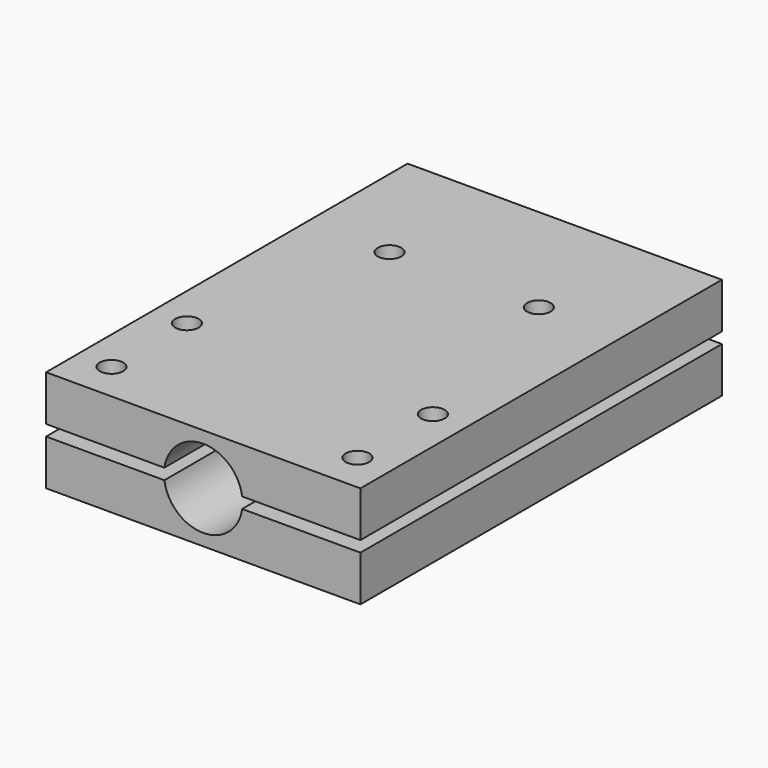
from build123d import *

# Parameters (mm, degrees)
F1_DEPTH  = 45
F2_W      = 40
F2_H      = 22.5
F3_DEPTH  = 25
F4_W      = 40
F4_H      = 5.7979146773
F6_DEPTH  = 25
F5_W      = 40
F5_H      = 5.7979146773
F8_DEPTH  = 10
F9_R      = 1.5
F10_DEPTH = 25
F11_DEPTH = 56.4


with BuildPart() as f1:
    # F0 (on Front) → F1 (new body)
    with BuildSketch(Plane.XZ):
        with BuildLine():
            Line((-20, 6.5), (-20, 0.7020853227))
            Line((-20, 0.7020853227), (-4.9504622208, 0.7020853227))
            ThreePointArc((-4.9504622208, 0.7020853227), (0, 5), (4.9504622208, 0.7020853227))
            Line((4.9504622208, 0.7020853227), (20, 0.7020853227))
            Line((20, 0.7020853227), (20, 6.5))
            Line((20, 6.5), (-20, 6.5))
        make_face()
    extrude(amount=F1_DEPTH)


with BuildPart() as f1b:
    # F0 (on Front) → F1, piece 2 (new body)
    with BuildSketch(Plane.XZ):
        with BuildLine():
            ThreePointArc((4.9504622208, -0.7020853227), (0, -5), (-4.9504622208, -0.7020853227))
            Line((-4.9504622208, -0.7020853227), (-20, -0.7020853227))
            Line((-20, -0.7020853227), (-20, -6.5))
            Line((-20, -6.5), (20, -6.5))
            Line((20, -6.5), (20, -0.7020853227))
            Line((20, -0.7020853227), (4.9504622208, -0.7020853227))
        make_face()
    extrude(amount=F1_DEPTH)


with BuildPart() as f3_tool:
    # F2 (on face) → F3 (new body)
    with BuildSketch(Plane.XY.offset(6.5)):
        with Locations((0, -11.25)):
            Rectangle(F2_W, F2_H)
    extrude(amount=-F3_DEPTH)


with BuildPart() as f1_1:
    add(f1.part)

    # F3: cut by f3_tool
    add(f3_tool.part, mode=Mode.SUBTRACT)

    # F4 (on face) → F6 (join)
    with BuildSketch(Plane(origin=(0, -22.5, 0), x_dir=(-1, 0, 0), z_dir=(0, 1, 0))):
        with Locations((0, 3.6010426614)):
            Rectangle(F4_W, F4_H)
    extrude(amount=F6_DEPTH)

    # F7: union 

    # F8 (add): a face of the model
    f8_faces = [f1_1.faces().sort_by_distance(p)[0] for p in [
        (0, 2.5, 3.6010426614),
    ]]
    extrude(f8_faces, amount=F8_DEPTH)


with BuildPart() as f1b_1:
    add(f1b.part)

    # F3: cut by f3_tool
    add(f3_tool.part, mode=Mode.SUBTRACT)

    # F5 (on face) → F6, piece 2 (join)
    with BuildSketch(Plane(origin=(0, -22.5, 0), x_dir=(-1, 0, 0), z_dir=(0, 1, 0))):
        with Locations((0, -3.6010426614)):
            Rectangle(F5_W, F5_H)
    extrude(amount=F6_DEPTH)

    # F8#2 (add): a face of the model
    f8_2_faces = [f1b_1.faces().sort_by_distance(p)[0] for p in [
        (0, 2.5, -3.6010426614),
    ]]
    extrude(f8_2_faces, amount=F8_DEPTH)


with BuildPart() as f10_tool:
    # F9 (on face) → F10 (new body)
    with BuildSketch(Plane.XY.offset(6.5)):
        with Locations((-15.648426488, -40.0356091559)):
            Circle(F9_R)
        with Locations((-15.648426488, -28.0356091559)):
            Circle(F9_R)
        with Locations((15.648426488, -40.0356091559)):
            Circle(F9_R)
        with Locations((15.648426488, -28.0356091559)):
            Circle(F9_R)
        with Locations((9.5, -3.5)):
            Circle(F9_R)
        with Locations((-9.5, -3.5)):
            Circle(F9_R)
    extrude(amount=-F10_DEPTH)


with BuildPart() as f1_2:
    add(f1_1.part)

    # F10: cut by f10_tool
    add(f10_tool.part, mode=Mode.SUBTRACT)


with BuildPart() as f1b_2:
    add(f1b_1.part)

    # F10: cut by f10_tool
    add(f10_tool.part, mode=Mode.SUBTRACT)


with BuildPart() as f11_tool:
    # F6_face1 (on face) → F11 (new body)
    with BuildSketch(Plane(origin=(0, -22.5, 2.5062101444), x_dir=(-1, 0, 0), z_dir=(0, -1, 0))):
        with BuildLine():
            Line((4.9504622208, 1.8041248217), (-4.9504622208, 1.8041248217))
            ThreePointArc((-4.9504622208, 1.8041248217), (0, -2.4937898556), (4.9504622208, 1.8041248217))
        make_face()
        with BuildLine():
            ThreePointArc((4.9504622208, 3.2082954671), (0, 7.5062101444), (-4.9504622208, 3.2082954671))
            Line((-4.9504622208, 3.2082954671), (4.9504622208, 3.2082954671))
        make_face()
    extrude(amount=-F11_DEPTH)


with BuildPart() as f1_3:
    add(f1_2.part)

    # F11: cut by f11_tool
    add(f11_tool.part, mode=Mode.SUBTRACT)


with BuildPart() as f1b_3:
    add(f1b_2.part)

    # F11: cut by f11_tool
    add(f11_tool.part, mode=Mode.SUBTRACT)


solid = Compound([f1_3.part, f1b_3.part])
